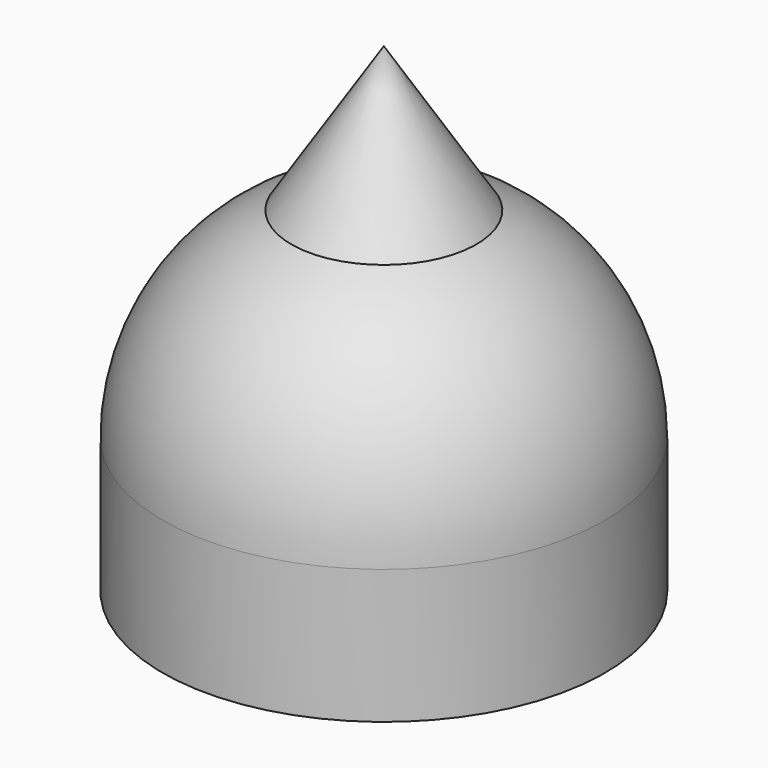
from build123d import *

# Parameters (mm, degrees)
F3_ANGLE = 90


with BuildPart() as f1:
    # F0 (on Top) → F1 (revolve)
    with BuildSketch(Plane.XY):
        with BuildLine():
            Line((0, 8.9), (0, 7.9))
            Line((0, 7.9), (2.4, 7.9))
            Line((2.4, 7.9), (2.4, 6.8))
            Line((2.4, 6.8), (5.4, 6.8))
            Line((5.4, 6.8), (5.4, 7.9))
            ThreePointArc((5.4, 7.9), (9.5153331571, 6.7434437053), (12.4257006262, 3.6124134192))
            Line((12.4257006262, 3.6124134192), (18.2946065217, 0))
            Line((18.2946065217, 0), (19.2946065217, 0))
            Line((19.2946065217, 0), (13.4845588364, 3.7215465093))
            ThreePointArc((13.4845588364, 3.7215465093), (10.2004289426, 7.494390033), (5.4, 8.9))
            Line((5.4, 8.9), (0, 8.9))
        make_face()
    revolve(axis=Axis((12.5827532146, 0, 0), (1, 0, 0)))


with BuildPart() as f1_1:
    # F3: moved
    add(f1.part.rotate(Axis((0, 0, 0), (0, -1, 0)), F3_ANGLE))


solid = f1_1.part
